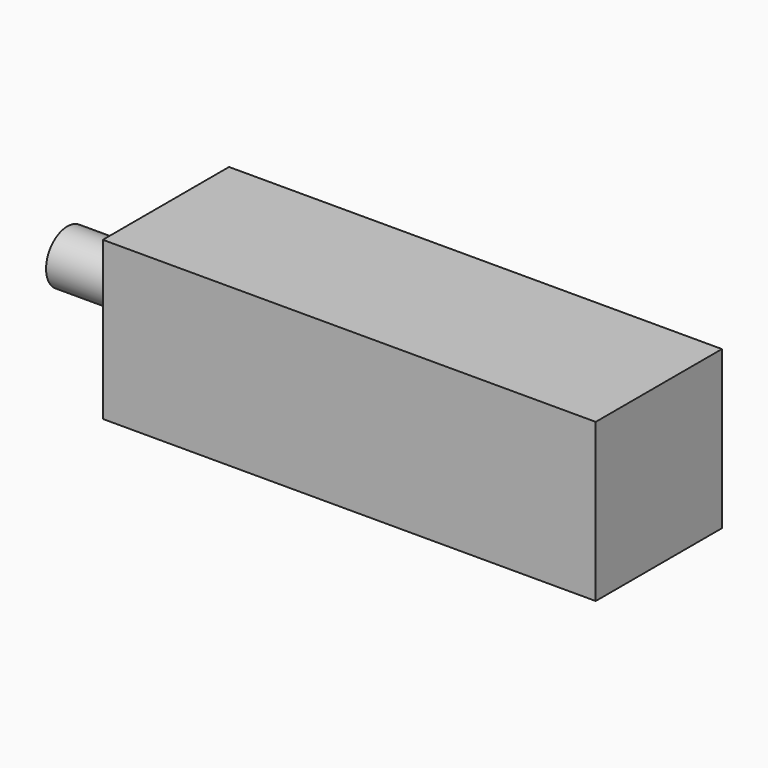
from build123d import *

# Parameters (mm, degrees)
F0_W     = 10.16
F0_H     = 10.16
F1_DEPTH = 31.75
F2_R     = 1.7145
F3_DEPTH = 6.35


with BuildPart() as f1:
    # F0 (on Right) → F1 (new body)
    with BuildSketch(Plane.YZ):
        with Locations((-5.08, 5.08)):
            Rectangle(F0_W, F0_H)
    extrude(amount=F1_DEPTH)

    # F2 (on Right) → F3 (join)
    with BuildSketch(Plane.YZ):
        with Locations((-5.08, 5.08)):
            Circle(F2_R)
    extrude(amount=-F3_DEPTH)


solid = f1.part
